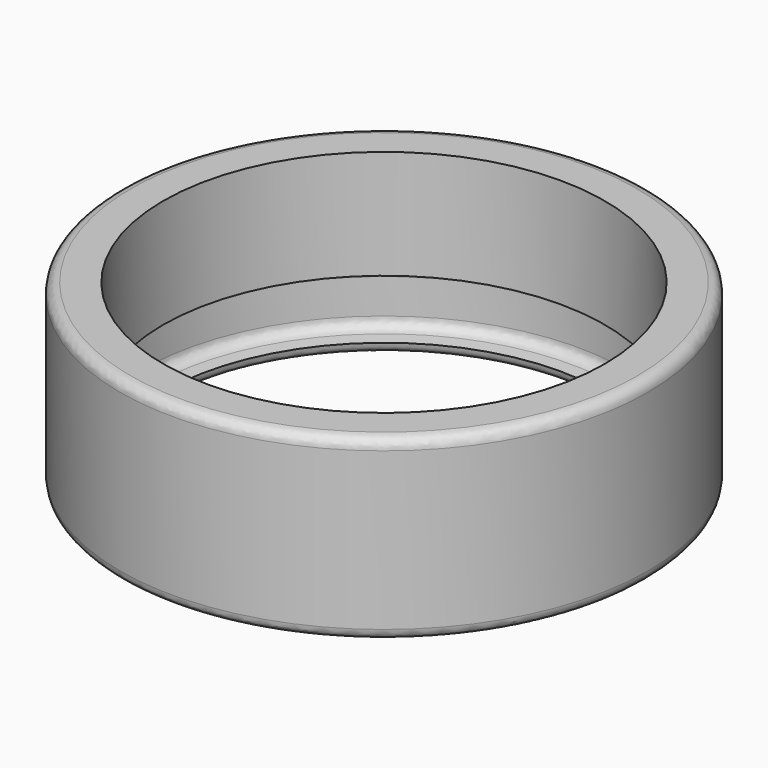
from build123d import *


with BuildPart() as f3:
    # F3: sweep along a path in F2
    with BuildLine(Plane.XY) as f3_path:
        CenterArc((44.6934216612, 55.5860569434), 44.7296170091, 0, 360)
    # F1 (on offset) → F3 (sweep)
    with BuildSketch(Plane.XZ.offset(-54)):
        with BuildLine():
            ThreePointArc((-4, -14.5), (-3.4142135624, -15.9142135624), (-2, -16.5))
            Line((-2, -16.5), (2, -16.5))
            ThreePointArc((2, -16.5), (3.4142135624, -15.9142135624), (4, -14.5))
            Line((4, -14.5), (1.7519305308, -14.2189913164))
            ThreePointArc((1.7519305308, -14.2189913164), (0.5006436484, -13.5580406894), (0, -12.2344355629))
            Line((0, -12.2344355629), (0, -5.8161250631))
            ThreePointArc((0, -5.8161250631), (0.5193622056, -4.4716133592), (1.8077117219, -3.8253902194))
            Line((1.8077117219, -3.8253902194), (4, -3.6136335711))
            Line((4, -3.6136335711), (4, 16.5))
            Line((4, 16.5), (-2, 16.5))
            ThreePointArc((-2, 16.5), (-3.4142135624, 15.9142135624), (-4, 14.5))
            Line((-4, 14.5), (-4, -14.5))
        make_face()
    sweep(path=f3_path.line)


solid = f3.part
